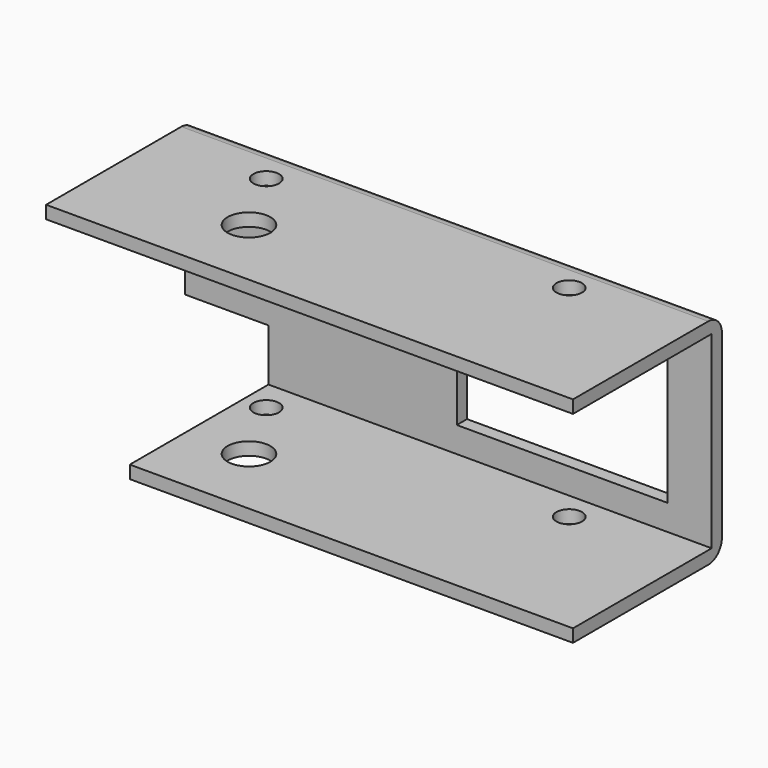
from build123d import *

# Parameters (mm, degrees)
F0_W     = 24.7
F0_H     = 16.1
F1_DEPTH = 1.5
F0_W_2   = 51.9
F0_H_2   = 1.5
F2_DEPTH = 21.8
F0_W_3   = 61.7
F3_DEPTH = 21.8
F4_R     = 2
F6_D     = 5
F6_DEPTH = 100
F7_D     = 3
F7_DEPTH = 100
F8_D     = 3


with BuildPart() as f1:
    # F0 (on Front) → F1 (new body)
    with BuildSketch(Plane.XZ):
        Polygon((30.85, 11.05), (-30.85, 11.05), (-30.85, -4.95), (-21.05, -4.95), (-21.05, -11.05), (30.85, -11.05), align=None)
        with BuildLine():
            ThreePointArc((-20.95, 0), (-20.975212, -0.273861), (-21.05, -0.538516))
            ThreePointArc((-21.05, -0.538516), (-23.95, 0), (-21.05, 0.538516))
            ThreePointArc((-21.05, 0.538516), (-20.975212, 0.273861), (-20.95, 0))
        make_face(mode=Mode.SUBTRACT)
        with Locations((13.35, 0)):
            Rectangle(F0_W, F0_H, mode=Mode.SUBTRACT)
    extrude(amount=F1_DEPTH)

    # F0 (on Front) → F2 (join)
    with BuildSketch(Plane.XZ):
        with Locations((4.9, -11.8)):
            Rectangle(F0_W_2, F0_H_2)
    extrude(amount=F2_DEPTH)

    # F0 (on Front) → F3 (join)
    with BuildSketch(Plane.XZ):
        with Locations((0, 11.8)):
            Rectangle(F0_W_3, F0_H_2)
    extrude(amount=F3_DEPTH)

    # F4
    f4_edges = [f1.edges().sort_by_distance(p)[0] for p in [
        (0, 0, 12.55),
        (4.9, 0, -12.55),
    ]]
    fillet(f4_edges, radius=F4_R)

    # F6
    with Locations(Plane.XY.offset(12.55)):
        with Locations((-13.863446, -13.334782)):
            Hole(F6_D / 2, depth=F6_DEPTH)

    # F7
    with Locations(Plane.XY.offset(12.55)):
        with Locations((16.783738, -4.766752)):
            Hole(F7_D / 2, depth=F7_DEPTH)

    # F8 (through all)
    with Locations(Plane.XY.offset(12.55)):
        with Locations((-18.35013, -5.2)):
            Hole(F8_D / 2)


solid = f1.part
